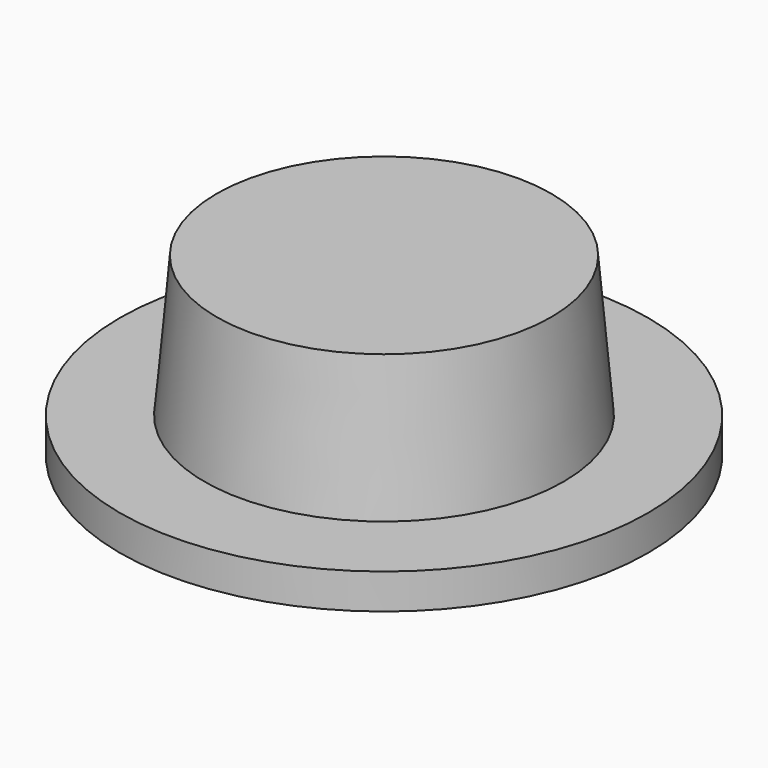
from build123d import *

# Parameters (mm, degrees)
F0_R     = 22.5
F0_R_2   = 15.3
F1_DEPTH = 3
F2_R     = 15.3
F3_DEPTH = 12
F3_TAPER = 5
F4_R     = 2
F5_DEPTH = 32.3


with BuildPart() as f1:
    # F0 (on Top) → F1 (new body)
    with BuildSketch(Plane.XY):
        Circle(F0_R)
        Circle(F0_R_2, mode=Mode.SUBTRACT)
        Circle(F0_R_2)
    extrude(amount=F1_DEPTH)

    # F2 (on face) → F3 (join)
    with BuildSketch(Plane.XY.offset(3)):
        Circle(F2_R)
    extrude(amount=F3_DEPTH, taper=F3_TAPER)

    # F4 (on face) → F5 (cut)
    with BuildSketch(Plane.XY.offset(3)):
        with Locations((0, 18.7446177006)):
            Circle(F4_R)
    extrude(amount=-F5_DEPTH, mode=Mode.SUBTRACT)


solid = f1.part
